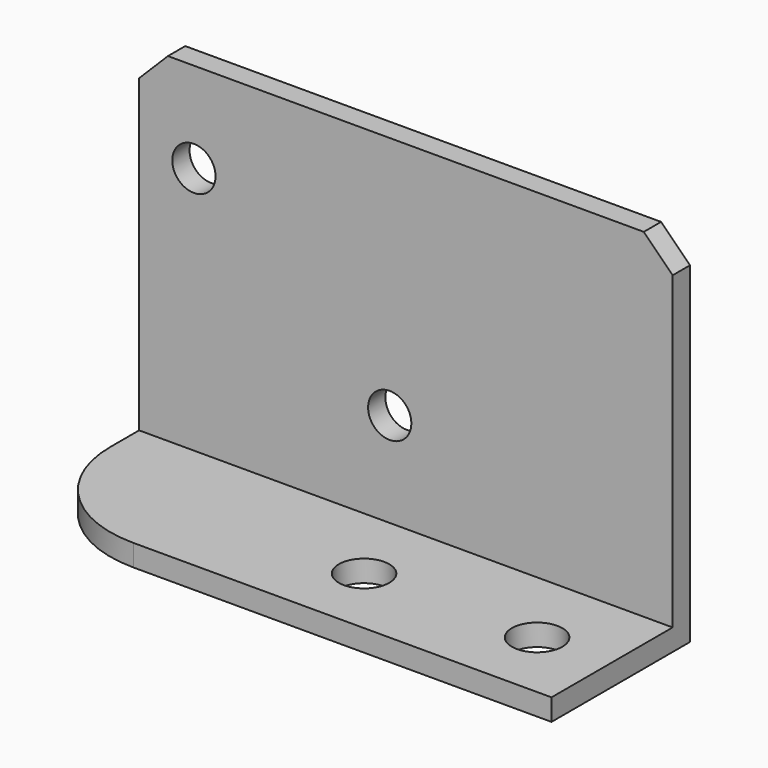
from build123d import *

# Parameters (mm, degrees)
F1_DEPTH = 37
F2_R     = 1.5
F3_DEPTH = 12.001
F4_R     = 1.75
F5_DEPTH = 25.001
F6_R     = 8
F7_SIZE  = 2


with BuildPart() as f1:
    # F0 (on Right) → F1 (new body)
    with BuildSketch(Plane.YZ):
        Polygon((-12, 0), (0, 0), (0, 25), (-1.5, 25), (-1.5, 1.5), (-12, 1.5), align=None)
    extrude(amount=-F1_DEPTH)

    # F2 (on Front) → F3 (cut, through all)
    with BuildSketch(Plane.XZ):
        with Locations((-33.2, 18.727851)):
            Circle(F2_R)
        with Locations((-19.62, 8.062404)):
            Circle(F2_R)
    extrude(amount=F3_DEPTH, mode=Mode.SUBTRACT)

    # F4 (on Top) → F5 (cut, through all)
    with BuildSketch(Plane.XY):
        with Locations((-5, -7)):
            Circle(F4_R)
        with Locations((-17, -7)):
            Circle(F4_R)
    extrude(amount=F5_DEPTH, mode=Mode.SUBTRACT)

    # F6
    f6_edges = [f1.edges().sort_by_distance(p)[0] for p in [
        (-37, -12, 0.75),
    ]]
    fillet(f6_edges, radius=F6_R)

    # F7
    f7_edges = [f1.edges().sort_by_distance(p)[0] for p in [
        (-37, -0.75, 25),
        (0, -0.75, 25),
    ]]
    chamfer(f7_edges, length=F7_SIZE)


solid = f1.part
